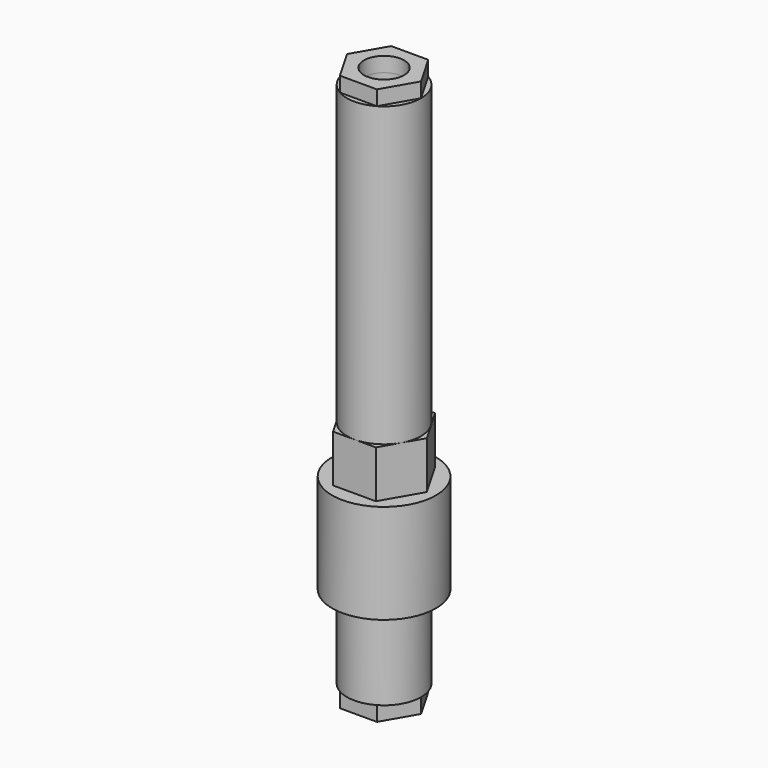
from build123d import *

# Parameters (mm, degrees)
F0_R          = 3.96875
F0_R_2        = 2.15265
F1_DEPTH      = 56.515
F3_R          = 2.15265
F4_DEPTH      = 1.5875
F4_DEPTH_BACK = 58.1025
F6_R          = 5.55625
F6_R_2        = 2.15265
F7_DEPTH      = 10.66165
F8_R          = 2.15265
F9_DEPTH      = 5.08


with BuildPart() as f1:
    # F0 (on Top) → F1 (new body)
    with BuildSketch(Plane.XY):
        Circle(F0_R)
        Circle(F0_R_2, mode=Mode.SUBTRACT)
    extrude(amount=F1_DEPTH)

    # F3 (on face) → F4 (join, two sides)
    with BuildSketch(Plane(origin=(0, 0, 0), x_dir=(1, 0, 0), z_dir=(0, 0, -1))) as f4_sk:
        Polygon((-1.984375, -3.4370383213), (1.984375, -3.4370383213), (3.96875, 0), (1.984375, 3.4370383213), (-1.984375, 3.4370383213), (-3.96875, 0), align=None)
        Circle(F3_R, mode=Mode.SUBTRACT)
    extrude(amount=F4_DEPTH)
    extrude(f4_sk.sketch, amount=-F4_DEPTH_BACK)

    # F6 (on offset) → F7 (join)
    with BuildSketch(Plane(origin=(0, 0, 8.89), x_dir=(1, 0, 0), z_dir=(0, 0, -1))):
        Circle(F6_R)
        Circle(F6_R_2, mode=Mode.SUBTRACT)
    extrude(amount=-F7_DEPTH)

    # F8 (on face) → F9 (join)
    with BuildSketch(Plane.XY.offset(19.55165)):
        Polygon((-2.2913588808, -3.96875), (2.2913588808, -3.96875), (4.5827177617, 0), (2.2913588808, 3.96875), (-2.2913588808, 3.96875), (-4.5827177617, 0), align=None)
        Circle(F8_R, mode=Mode.SUBTRACT)
    extrude(amount=F9_DEPTH)


solid = f1.part
